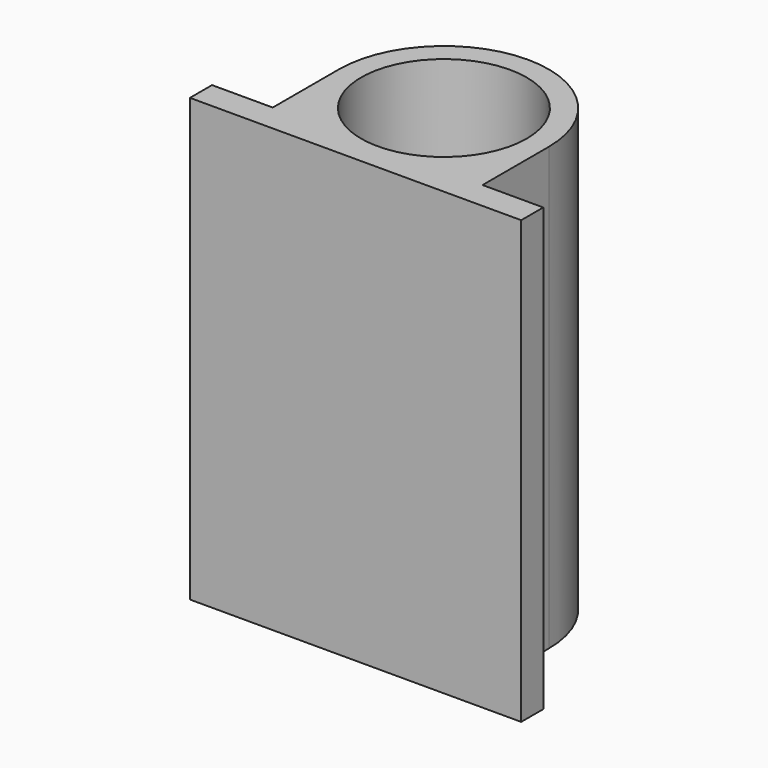
from build123d import *

# Parameters (mm, degrees)
SKETCH_R  = 15
PAD_DEPTH = 80


with BuildPart() as part:
    # Sketch → Pad (new body)
    with BuildSketch(Plane.XY):
        with BuildLine():
            Line((30, 5), (30, 0))
            Line((30, 0), (-30, 0))
            Line((-30, 0), (-30, 5))
            Line((-30, 5), (-19, 5))
            Line((-19, 20), (-19, 5))
            ThreePointArc((19, 20), (0, 39), (-19, 20))
            Line((19, 20), (19, 5))
            Line((19, 5), (30, 5))
        make_face()
        with Locations((0, 20)):
            Circle(SKETCH_R, mode=Mode.SUBTRACT)
    extrude(amount=PAD_DEPTH)


solid = part.part
